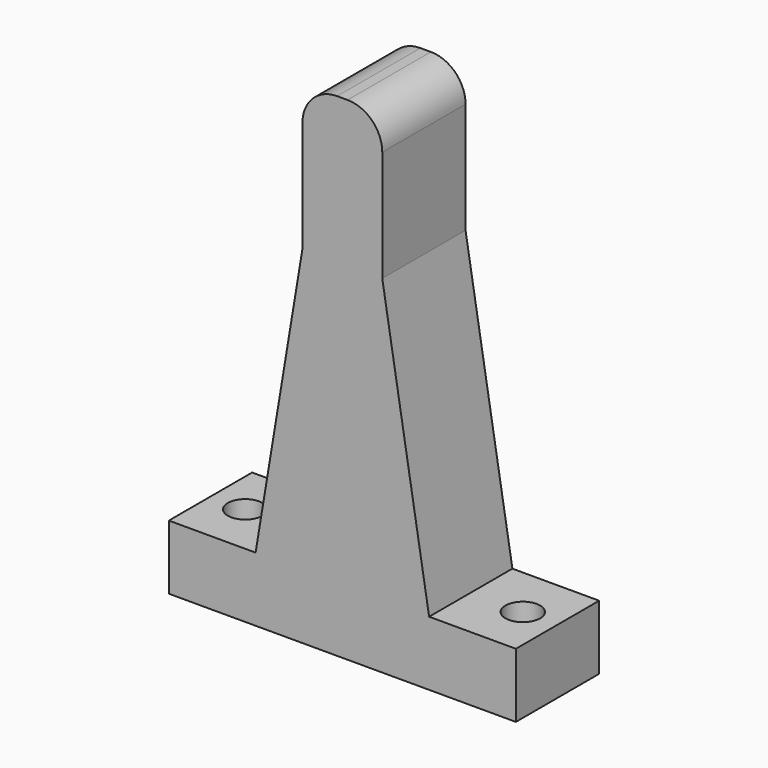
from build123d import *

# Parameters (mm, degrees)
F1_DEPTH = 15
F2_R     = 2.5
F3_DEPTH = 25


with BuildPart() as f1:
    # F0 (on Front) → F1 (new body)
    with BuildSketch(Plane.XZ):
        with BuildLine():
            Line((0.75, 71), (-0.75, 71))
            ThreePointArc((-0.75, 71), (-4.285534, 69.535534), (-5.75, 66))
            Line((-5.75, 66), (-5.75, 50))
            Line((-5.75, 50), (-12.5, 9.279459))
            Line((-12.5, 9.279459), (-25, 9.279459))
            Line((-25, 9.279459), (-25, 0))
            Line((-25, 0), (-12.5, 0))
            Line((-12.5, 0), (12.5, 0))
            Line((12.5, 0), (25, 0))
            Line((25, 0), (25, 9.279459))
            Line((25, 9.279459), (12.5, 9.279459))
            Line((12.5, 9.279459), (5.75, 50))
            Line((5.75, 50), (5.75, 66))
            ThreePointArc((5.75, 66), (4.285534, 69.535534), (0.75, 71))
        make_face()
    extrude(amount=F1_DEPTH)

    # F2 (on face) → F3 (cut)
    with BuildSketch(Plane(origin=(0, 0, 0), x_dir=(1, 0, 0), z_dir=(0, 0, -1))):
        with Locations((-20, 7.5)):
            Circle(F2_R)
        with Locations((20, 7.5)):
            Circle(F2_R)
    extrude(amount=-F3_DEPTH, mode=Mode.SUBTRACT)


solid = f1.part
